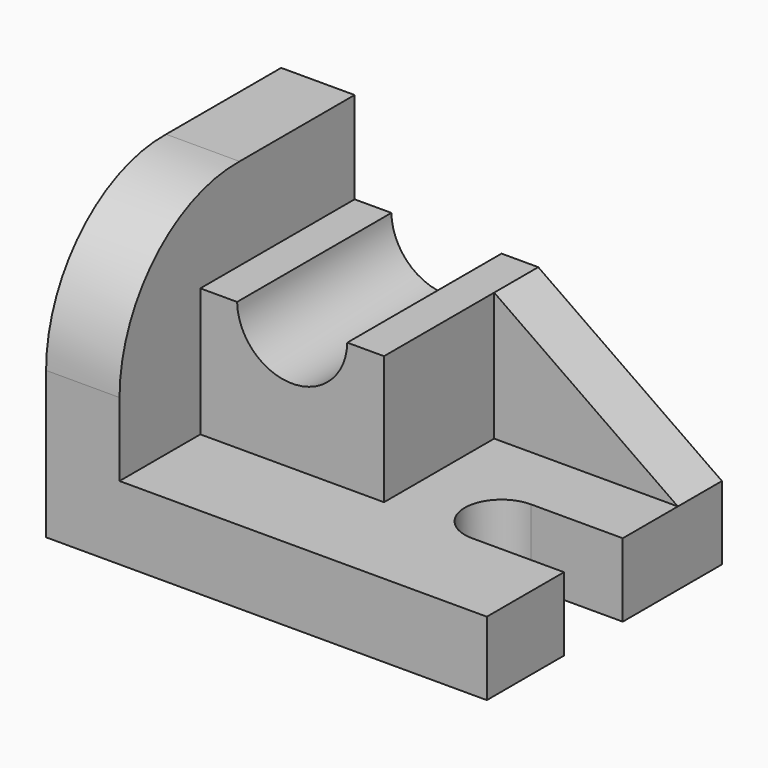
from build123d import *

# Parameters (mm, degrees)
F0_W      = 2438.4
F0_H      = 1625.6
F1_DEPTH  = 406.4
F3_DEPTH  = 406.4
F4_W      = 1016
F4_H      = 1066.8
F5_DEPTH  = 711.2
F7_DEPTH  = 304.8
F8_R      = 304.8
F9_DEPTH  = 1625.601
F11_DEPTH = 406.401


with BuildPart() as f1:
    # F0 (on Top) → F1 (new body)
    with BuildSketch(Plane.XY):
        with Locations((-1163.46351, 770.682062)):
            Rectangle(F0_W, F0_H)
    extrude(amount=F1_DEPTH)

    # F2 (on face) → F3 (join)
    with BuildSketch(Plane(origin=(-2382.66351, 0, 0), x_dir=(0, -1, 0), z_dir=(-1, 0, 0))):
        with BuildLine():
            Line((-1583.482062, 1625.6), (-1583.482062, 406.4))
            Line((-1583.482062, 406.4), (42.117938, 406.4))
            Line((42.117938, 406.4), (42.117938, 812.979373))
            ThreePointArc((42.117938, 812.979373), (-202.01465, 1393.721325), (-787.757099, 1625.6))
            Line((-787.757099, 1625.6), (-1583.482062, 1625.6))
        make_face()
    extrude(amount=-F3_DEPTH)

    # F4 (on face) → F5 (join)
    with BuildSketch(Plane.XY.offset(406.4)):
        with Locations((-1468.26351, 1050.082062)):
            Rectangle(F4_W, F4_H)
    extrude(amount=F5_DEPTH)

    # F6 (on face) → F7 (join)
    with BuildSketch(Plane(origin=(0, 1583.482062, 0), x_dir=(-1, 0, 0), z_dir=(0, 1, 0))):
        Polygon((960.26351, 1117.6), (-55.73649, 406.4), (-55.73649, 0), (960.26351, 0), align=None)
    extrude(amount=-F7_DEPTH)

    # F8 (on face) → F9 (cut, through all)
    with BuildSketch(Plane(origin=(0, 1583.482062, 0), x_dir=(-1, 0, 0), z_dir=(0, 1, 0))):
        with Locations((1468.227641, 1123.636682)):
            Circle(F8_R)
    extrude(amount=-F9_DEPTH, mode=Mode.SUBTRACT)

    # F10 (on face) → F11 (cut, through all)
    with BuildSketch(Plane.XY.offset(406.4)):
        with BuildLine():
            Line((-452.26351, 491.282062), (55.73649, 491.282062))
            Line((55.73649, 491.282062), (55.73649, 897.682062))
            Line((55.73649, 897.682062), (-452.26351, 897.682062))
            ThreePointArc((-452.26351, 897.682062), (-655.46351, 694.482062), (-452.26351, 491.282062))
        make_face()
    extrude(amount=-F11_DEPTH, mode=Mode.SUBTRACT)


solid = f1.part
